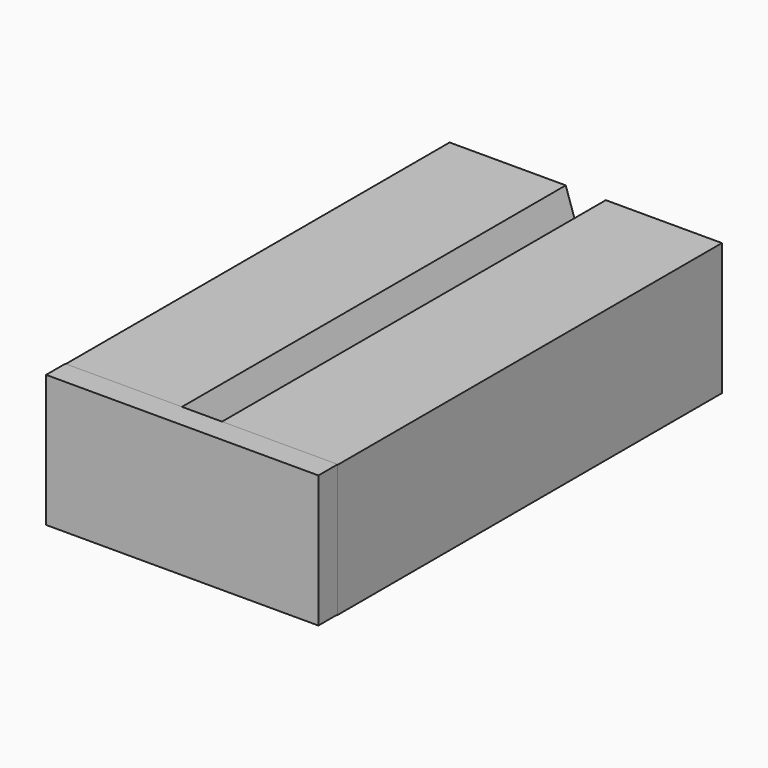
from build123d import *

# Parameters (mm, degrees)
F0_W     = 31.75
F0_H     = 5.3823811583
F0_W_2   = 2.54
F0_H_2   = 11.4322254079
F0_W_3   = 5.08
F0_H_3   = 5.08
F0_H_4   = 31.75
F1_DEPTH = 152.4
F3_W     = 86.36
F3_H     = 41.91
F4_DEPTH = 7.62


with BuildPart() as f1:
    # F0 (on Front) → F1 (new body)
    with BuildSketch(Plane.XZ):
        with Locations((20.955, 5.9824082972)):
            Rectangle(F0_W, F0_H)
        with Locations((-1.27, 24.2451050141)):
            Rectangle(F0_W_2, F0_H_2)
        Polygon((5.08, 45.2012177181), (0, 29.9612177181), (5.08, 29.9612177181), (5.08, 40.4235988763), align=None)
        Polygon((41.91, 45.2012177181), (5.08, 45.2012177181), (5.08, 40.4235988763), (36.83, 40.4235988763), (36.83, 8.6735988763), (41.91, 8.6735988763), align=None)
        with Locations((39.37, 5.9824082972)):
            Rectangle(F0_W_3, F0_H)
        with Locations((-5.08, 24.2451050141)):
            Rectangle(F0_W_3, F0_H_2)
        with Locations((-23.495, 42.6612177181)):
            Rectangle(F0_W, F0_H_3)
        with Locations((-41.91, 42.6612177181)):
            Rectangle(F0_W_3, F0_H_3)
        with Locations((-41.91, 24.2462177181)):
            Rectangle(F0_W_3, F0_H_4)
        with Locations((-41.91, 5.8312177181)):
            Rectangle(F0_W_3, F0_H_3)
        with Locations((-23.495, 5.8312177181)):
            Rectangle(F0_W, F0_H_3)
        Polygon((-7.62, 18.5289923102), (-7.62, 8.3712177181), (-7.62, 3.2912177181), (-2.54, 18.5289923102), align=None)
        with Locations((2.54, 24.2451050141)):
            Rectangle(F0_W_3, F0_H_2)
        Polygon((5.08, 8.6735988763), (3.2856109231, 8.6735988763), (5.08, 3.2912177181), align=None)
        Polygon((5.08, 18.5289923102), (0, 18.5289923102), (3.2856109231, 8.6735988763), (5.08, 8.6735988763), align=None)
        Polygon((-7.62, 45.2012177181), (-7.62, 40.1212177181), (-7.62, 29.9612177181), (-2.54, 29.9612177181), align=None)
    extrude(amount=F1_DEPTH)

    # F3 (on offset) → F4 (join)
    with BuildSketch(Plane.XZ.offset(152.4)):
        with Locations((-1.2090988457, 24.44053792)):
            Rectangle(F3_W, F3_H)
    extrude(amount=F4_DEPTH)


solid = f1.part
